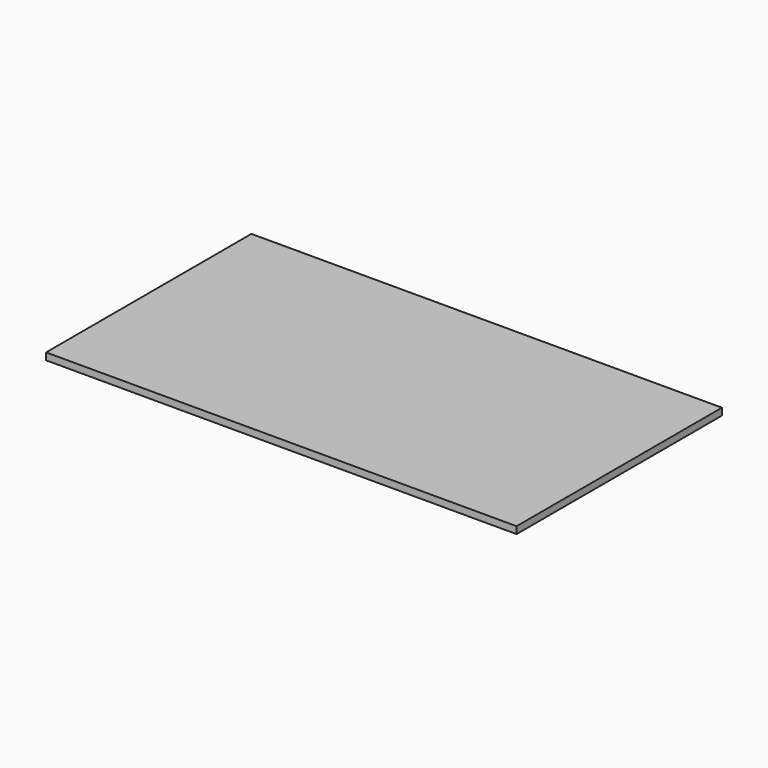
from build123d import *

# Parameters (mm, degrees)
F0_W     = 1210
F0_H     = 660
F1_DEPTH = 18


with BuildPart() as f1:
    # F0 (on Top) → F1 (new body)
    with BuildSketch(Plane.XY):
        with Locations((0, 330)):
            Rectangle(F0_W, F0_H)
        with BuildLine():
            ThreePointArc((-402.5, 525), (-455, 577.5), (-402.5, 630))
            Line((-402.5, 630), (-202.5, 630))
            ThreePointArc((-202.5, 630), (-150, 577.5), (-202.5, 525))
            Line((-202.5, 525), (-402.5, 525))
        make_face(mode=Mode.SUBTRACT)
        with BuildLine():
            ThreePointArc((202.5, 525), (150, 577.5), (202.5, 630))
            Line((202.5, 630), (402.5, 630))
            ThreePointArc((402.5, 630), (455, 577.5), (402.5, 525))
            Line((402.5, 525), (202.5, 525))
        make_face(mode=Mode.SUBTRACT)
        with BuildLine():
            Line((-202.5, 630), (-402.5, 630))
            ThreePointArc((-402.5, 630), (-455, 577.5), (-402.5, 525))
            Line((-402.5, 525), (-202.5, 525))
            ThreePointArc((-202.5, 525), (-150, 577.5), (-202.5, 630))
        make_face()
        with BuildLine():
            Line((402.5, 630), (202.5, 630))
            ThreePointArc((202.5, 630), (150, 577.5), (202.5, 525))
            Line((202.5, 525), (402.5, 525))
            ThreePointArc((402.5, 525), (455, 577.5), (402.5, 630))
        make_face()
    extrude(amount=F1_DEPTH)


solid = f1.part
